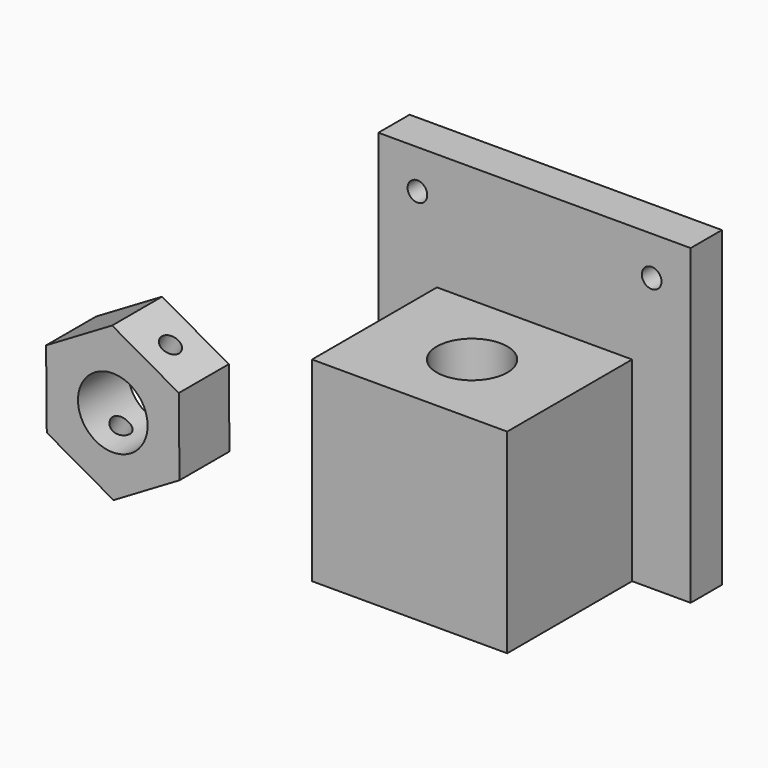
from build123d import *

# Parameters (mm, degrees)
F0_W      = 50.8
F0_H      = 50.8
F1_DEPTH  = 6.35
F2_W      = 31.75
F2_H      = 31.75
F3_DEPTH  = 25.4
F4_R      = 5.7404
F5_DEPTH  = 33.02
F6_R      = 1.6002
F6_R_2    = 1.59893
F7_DEPTH  = 6.604
F8_R      = 5.6642
F9_DEPTH  = 10.16
F10_R     = 1.593949
F11_DEPTH = 22.86


with BuildPart() as f1:
    # F0 (on Front) → F1 (new body)
    with BuildSketch(Plane.XZ):
        with Locations((13.40475, 7.111192)):
            Rectangle(F0_W, F0_H)
    extrude(amount=F1_DEPTH)

    # F2 (on face) → F3 (join)
    with BuildSketch(Plane.XZ.offset(6.35)):
        with Locations((13.40475, -2.413808)):
            Rectangle(F2_W, F2_H)
    extrude(amount=F3_DEPTH)

    # F4 (on face) → F5 (cut)
    with BuildSketch(Plane.XY.offset(13.461192)):
        with Locations((13.40475, -19.05)):
            Circle(F4_R)
    extrude(amount=-F5_DEPTH, mode=Mode.SUBTRACT)

    # F6 (on face) → F7 (cut)
    with BuildSketch(Plane.XZ.offset(6.35)):
        with Locations((-5.64525, 26.161192)):
            Circle(F6_R)
        with Locations((32.45475, 26.161192)):
            Circle(F6_R_2)
    extrude(amount=-F7_DEPTH, mode=Mode.SUBTRACT)


with BuildPart() as f9:
    # F8 (on Front) → F9 (new body)
    with BuildSketch(Plane.XZ):
        Polygon((-41.405362, -12.776376), (-52.256921, -6.642886), (-62.994458, -12.973866), (-62.880437, -25.438337), (-52.028878, -31.571827), (-41.291341, -25.240847), align=None)
        with Locations((-52.142899, -19.107357)):
            Circle(F8_R, mode=Mode.SUBTRACT)
    extrude(amount=F9_DEPTH)

    # F10 (on face) → F11 (cut)
    with BuildSketch(Plane(origin=(-26.121574, 0, -46.215088), x_dir=(0.870563, 0, -0.492057), z_dir=(-0.492057, 0, -0.870563))):
        with Locations((-35.991756, 5.08)):
            Circle(F10_R)
    extrude(amount=-F11_DEPTH, mode=Mode.SUBTRACT)


solid = Compound([f1.part, f9.part])
